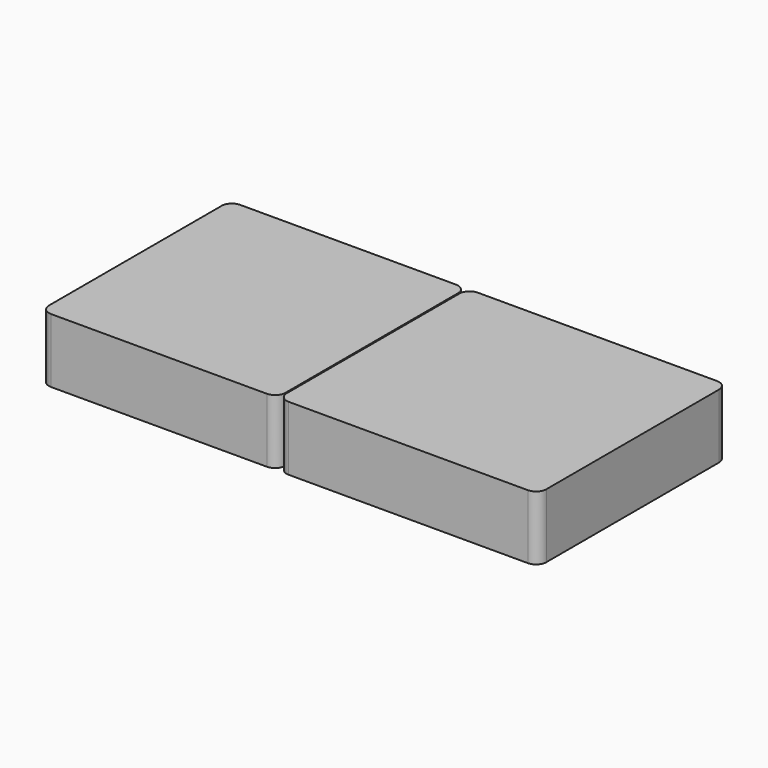
from build123d import *

# Parameters (mm, degrees)
F1_DEPTH = 25


with BuildPart() as f1:
    # F0 (on Top) → F1 (new body)
    with BuildSketch(Plane.XY):
        with BuildLine():
            ThreePointArc((0, 4), (1.171573, 1.171573), (4, 0))
            Line((4, 0), (88, 0))
            ThreePointArc((88, 0), (90.828427, 1.171573), (92, 4))
            Line((92, 4), (92, 88))
            ThreePointArc((92, 88), (90.828427, 90.828427), (88, 92))
            Line((88, 92), (4, 92))
            ThreePointArc((4, 92), (1.171573, 90.828427), (0, 88))
            Line((0, 88), (0, 4))
        make_face()
        with BuildLine():
            Line((189.551907, 92), (96.5, 92))
            ThreePointArc((96.5, 92), (93.671573, 90.828427), (92.5, 88))
            Line((92.5, 88), (92.5, 4))
            ThreePointArc((92.5, 4), (93.671573, 1.171573), (96.5, 0))
            Line((96.5, 0), (189.551907, 0))
            ThreePointArc((189.551907, 0), (192.380334, 1.171573), (193.551907, 4))
            Line((193.551907, 4), (193.551907, 88))
            ThreePointArc((193.551907, 88), (192.380334, 90.828427), (189.551907, 92))
        make_face()
    extrude(amount=F1_DEPTH)


solid = f1.part
